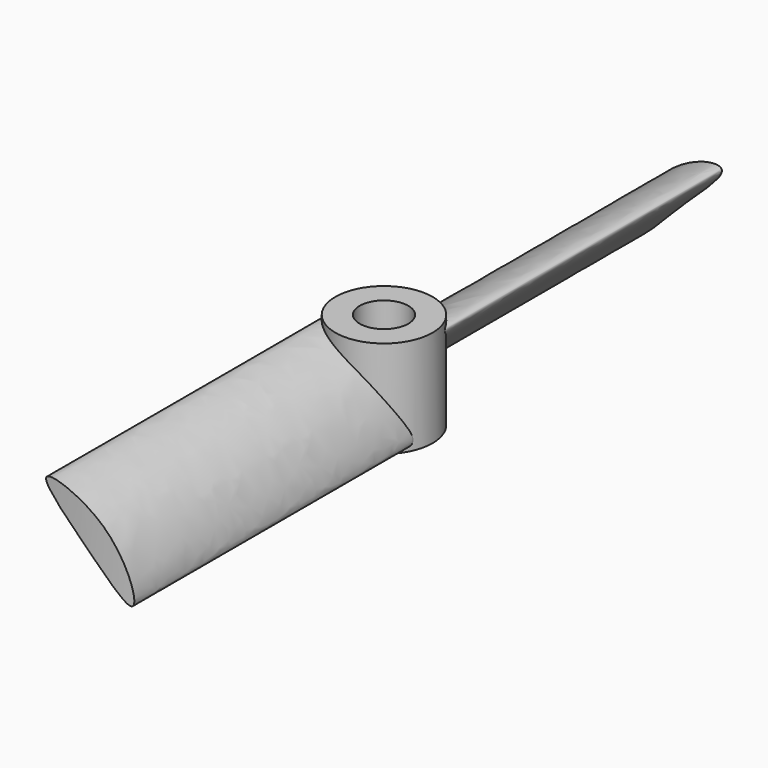
from build123d import *

# Parameters (mm, degrees)
F0_R     = 5
F1_DEPTH = 10
F3_DEPTH = 100
F4_COUNT = 2
F5_R     = 106.3320700354
F5_R_2   = 38.1
F5_R_3   = 2.5
F6_DEPTH = 25


with BuildPart() as f1:
    # F0 (on Top) → F1 (new body)
    with BuildSketch(Plane.XY):
        Circle(F0_R)
    extrude(amount=F1_DEPTH)



with BuildPart() as f3:
    # F2 (on Front) → F3 (new body)
    with BuildSketch(Plane.XZ):
        with BuildLine():
            add(Edge.make_bspline(
                [(-4.4322875328, 9.2625021935), (-4.0046929693, 9.8702987499), (2.892835081, 8.0817281159), (5.9534211923, -2.3867853005), (0.1714658404, 4.5092960139), (-4.864709357, 8.6478440147), (-4.4322875328, 9.2625021935)],
                knots=[0, 0, 0, 0, 0.2504152158, 0.5092673356, 0.7467577616, 1, 1, 1, 1], degree=3))
        make_face()
    extrude(amount=F3_DEPTH)


with BuildPart() as f1_1:
    add(f1.part)

    add(f3.part)  # F4 merges F3
    # F4: F3 ×2 about axis
    f4_axis = Axis((0, 0, 10), (0, 0, 1))
    for i in range(1, F4_COUNT):
        add(f3.part.rotate(f4_axis, i * 360 / F4_COUNT))

    # F5 (on face) → F6 (cut)
    with BuildSketch(Plane.XY.offset(10)):
        Circle(F5_R)
        Circle(F5_R_2, mode=Mode.SUBTRACT)
        Circle(F5_R_3)
    extrude(amount=-F6_DEPTH, mode=Mode.SUBTRACT)


solid = f1_1.part
